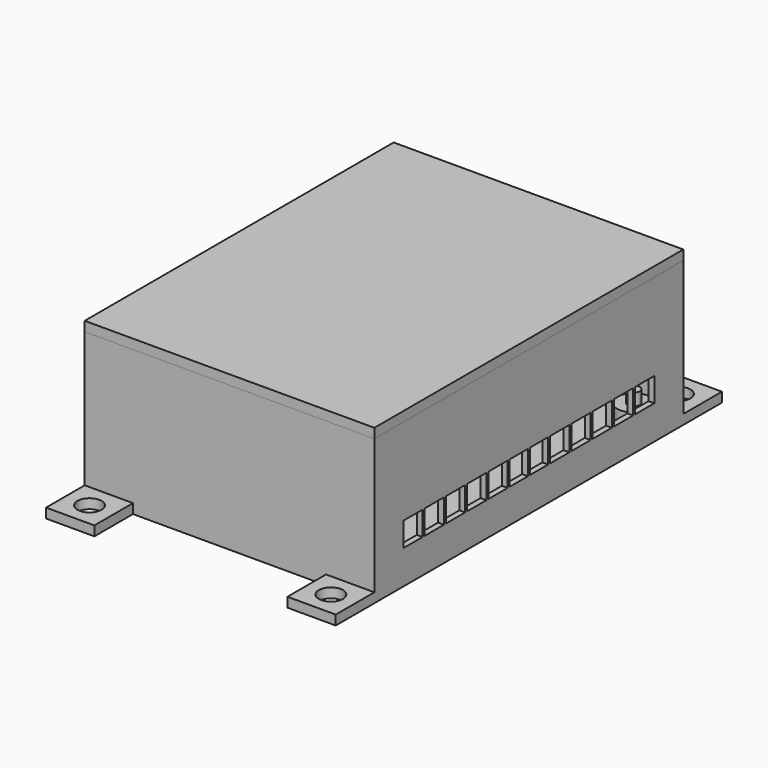
from build123d import *

# Parameters (mm, degrees)
F1_DEPTH  = 2
F2_W      = 60
F2_H      = 80
F2_W_2    = 57.6
F2_H_2    = 77.6
F3_DEPTH  = 28
F7_R      = 2.5
F6_R      = 2.5
F5_R      = 2.5
F4_R      = 2.5
F8_DEPTH  = 2
F9_R      = 3.4
F10_DEPTH = 2.5
F14_R     = 1.25
F13_R     = 1.25
F11_R     = 1.25
F12_R     = 1.25
F15_DEPTH = 2.5
F16_W     = 65
F16_H     = 5
F17_DEPTH = 1.2
F18_W     = 1.2
F18_H     = 0.5
F19_DEPTH = 5
F20_W     = 20
F20_H     = 5
F21_DEPTH = 1.2
F22_W     = 60
F22_H     = 80
F23_DEPTH = 2
F24_W     = 57.6
F24_H     = 77.6
F25_DEPTH = 5
F26_W     = 1.2
F26_H     = 0.5
F27_DEPTH = 5


with BuildPart() as f1:
    # F0 (on Top) → F1 (new body)
    with BuildSketch(Plane.XY):
        Polygon((0, 100), (0, 0), (10, 0), (10, 10), (50, 10), (50, 0), (60, 0), (60, 100), (50, 100), (50, 90), (10, 90), (10, 100), align=None)
    extrude(amount=F1_DEPTH)

    # F2 (on face) → F3 (join)
    with BuildSketch(Plane.XY.offset(2)):
        with Locations((30, 50)):
            Rectangle(F2_W, F2_H)
        with Locations((30, 50)):
            Rectangle(F2_W_2, F2_H_2, mode=Mode.SUBTRACT)
    extrude(amount=F3_DEPTH)

    # F7 (on face) + F6 (on face) + F5 (on face) + F4 (on face) → F8 (cut, through all)
    with BuildSketch(Plane.XY.offset(2)):
        with Locations((5, 95)):
            Circle(F7_R)
    with BuildSketch(Plane.XY.offset(2)):
        with Locations((55, 95)):
            Circle(F6_R)
    with BuildSketch(Plane.XY.offset(2)):
        with Locations((55, 5)):
            Circle(F5_R)
    with BuildSketch(Plane.XY.offset(2)):
        with Locations((5, 5)):
            Circle(F4_R)
    extrude(amount=-F8_DEPTH, mode=Mode.SUBTRACT)

    # F9 (on face) → F10 (join)
    with BuildSketch(Plane.XY.offset(2)):
        with Locations((5.71, 15.71)):
            Circle(F9_R)
        with Locations((5.71, 84.29)):
            Circle(F9_R)
        with Locations((54.29, 15.71)):
            Circle(F9_R)
        with Locations((54.29, 84.29)):
            Circle(F9_R)
    extrude(amount=F10_DEPTH)

    # F14 (on face) + F13 (on face) + F11 (on face) + F12 (on face) → F15 (join)
    with BuildSketch(Plane.XY.offset(4.5)):
        with Locations((5.71, 84.29)):
            Circle(F14_R)
    with BuildSketch(Plane.XY.offset(4.5)):
        with Locations((54.29, 84.29)):
            Circle(F13_R)
    with BuildSketch(Plane.XY.offset(4.5)):
        with Locations((5.71, 15.71)):
            Circle(F11_R)
    with BuildSketch(Plane.XY.offset(4.5)):
        with Locations((54.29, 15.71)):
            Circle(F12_R)
    extrude(amount=F15_DEPTH)

    # F16 (on face) → F17 (cut, through all)
    with BuildSketch(Plane.YZ.offset(60)):
        with Locations((50, 9.5)):
            Rectangle(F16_W, F16_H)
    extrude(amount=-F17_DEPTH, mode=Mode.SUBTRACT)

    # F18 (on face) → F19 (join, through all)
    with BuildSketch(Plane.XY.offset(7)):
        with Locations((59.4, 50)):
            Rectangle(F18_W, F18_H)
        with Locations((59.4, 44.75)):
            Rectangle(F18_W, F18_H)
        with Locations((59.4, 39.25)):
            Rectangle(F18_W, F18_H)
        with Locations((59.4, 33.75)):
            Rectangle(F18_W, F18_H)
        with Locations((59.4, 28.25)):
            Rectangle(F18_W, F18_H)
        with Locations((59.4, 22.75)):
            Rectangle(F18_W, F18_H)
        with Locations((59.4, 60.75)):
            Rectangle(F18_W, F18_H)
        with Locations((59.4, 55.25)):
            Rectangle(F18_W, F18_H)
        with Locations((59.4, 66.25)):
            Rectangle(F18_W, F18_H)
        with Locations((59.4, 71.75)):
            Rectangle(F18_W, F18_H)
        with Locations((59.4, 77.25)):
            Rectangle(F18_W, F18_H)
    extrude(amount=F19_DEPTH)

    # F20 (on face) → F21 (cut, through all)
    with BuildSketch(Plane(origin=(0, 0, 0), x_dir=(0, -1, 0), z_dir=(-1, 0, 0))):
        with Locations((-50, 12)):
            Rectangle(F20_W, F20_H)
    extrude(amount=-F21_DEPTH, mode=Mode.SUBTRACT)

    # F26 (on face) → F27 (join, through all)
    with BuildSketch(Plane.XY.offset(9.5)):
        with Locations((0.6, 50)):
            Rectangle(F26_W, F26_H)
        with Locations((0.6, 44.5)):
            Rectangle(F26_W, F26_H)
        with Locations((0.6, 55.5)):
            Rectangle(F26_W, F26_H)
    extrude(amount=F27_DEPTH)


with BuildPart() as f23:
    # F22 (on face) → F23 (new body)
    with BuildSketch(Plane.XY.offset(30)):
        with Locations((30, 50)):
            Rectangle(F22_W, F22_H)
    extrude(amount=F23_DEPTH)

    # F24 (on face) → F25 (join)
    with BuildSketch(Plane.XY.offset(30)):
        with Locations((30, 50)):
            Rectangle(F24_W, F24_H)
    extrude(amount=-F25_DEPTH)


solid = Compound([f1.part, f23.part])
